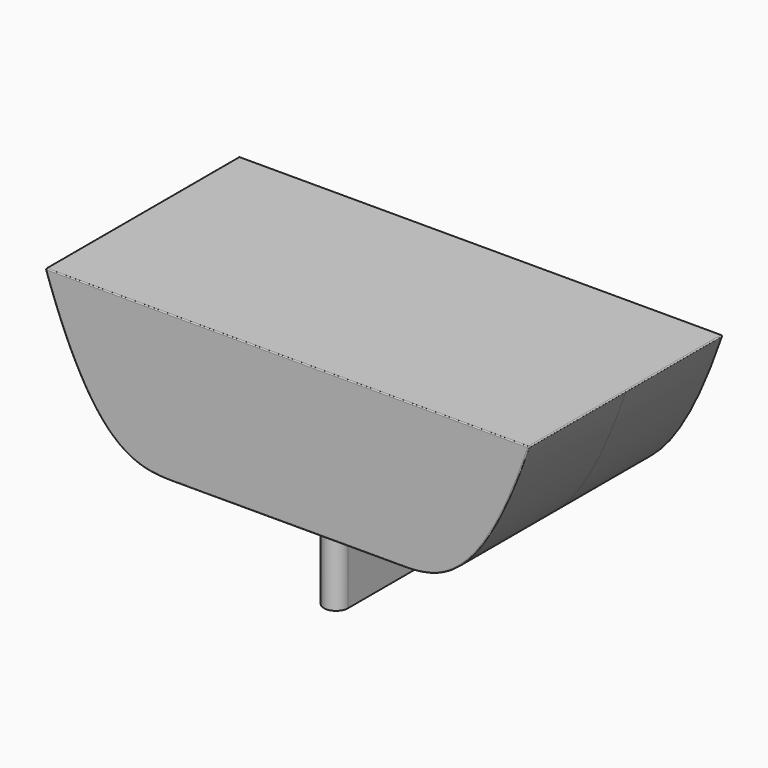
from build123d import *

# Parameters (mm, degrees)
PAD_DEPTH    = 50
THICKNESS_T  = 0.4
PAD001_DEPTH = 100


with BuildPart() as hull:
    # Sketch003 → Pad (new body, symmetric)
    with BuildSketch(Plane.XZ):
        with BuildLine():
            Line((-100, 0), (100, 0))
            add(Edge.make_bspline(
                [(-100, 0), (-79.318541, -60), (-44.357747, -60), (0, -60), (44.357747, -60), (79.318541, -60), (100, 0)],
                knots=[0, 0, 0, 0, 0.25, 0.5, 0.75, 1, 1, 1, 1], degree=3))
        make_face()
    extrude(amount=PAD_DEPTH, both=True)

    # Thickness
    thickness_openings = [hull.faces().sort_by_distance(p)[0] for p in [
        (0, 50, -27.855645),
    ]]
    offset(amount=THICKNESS_T, openings=thickness_openings)


with BuildPart() as keel_slot:
    # Sketch002 → Pad001 (new body)
    with BuildSketch(Plane.XY):
        with BuildLine():
            ThreePointArc((5, 25), (0, 30), (-5, 25))
            Line((-5, 25), (-5, -25))
            ThreePointArc((-5, -25), (0, -30), (5, -25))
            Line((5, 25), (5, -25))
        make_face()
    extrude(amount=-PAD001_DEPTH)


solid = Compound([hull.part, keel_slot.part])
